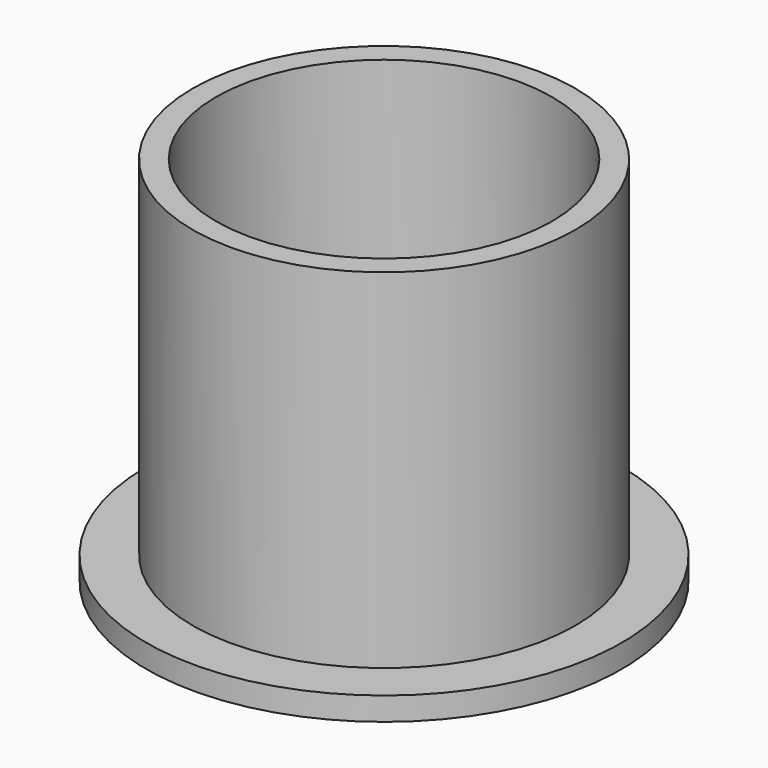
from build123d import *

# Parameters (mm, degrees)
F0_W = 6.35
F0_H = 3.175


with BuildPart() as f1:
    # F0 (on Front) → F1 (revolve)
    with BuildSketch(Plane.XZ):
        Polygon((-22.987, 50.8), (-26.162, 50.8), (-26.162, 3.175), (-26.162, 0), (-22.987, 0), align=None)
        with Locations((-29.337, 1.5875)):
            Rectangle(F0_W, F0_H)
    revolve(axis=Axis((0, 0, 25.4), (0, 0, 1)))


solid = f1.part
